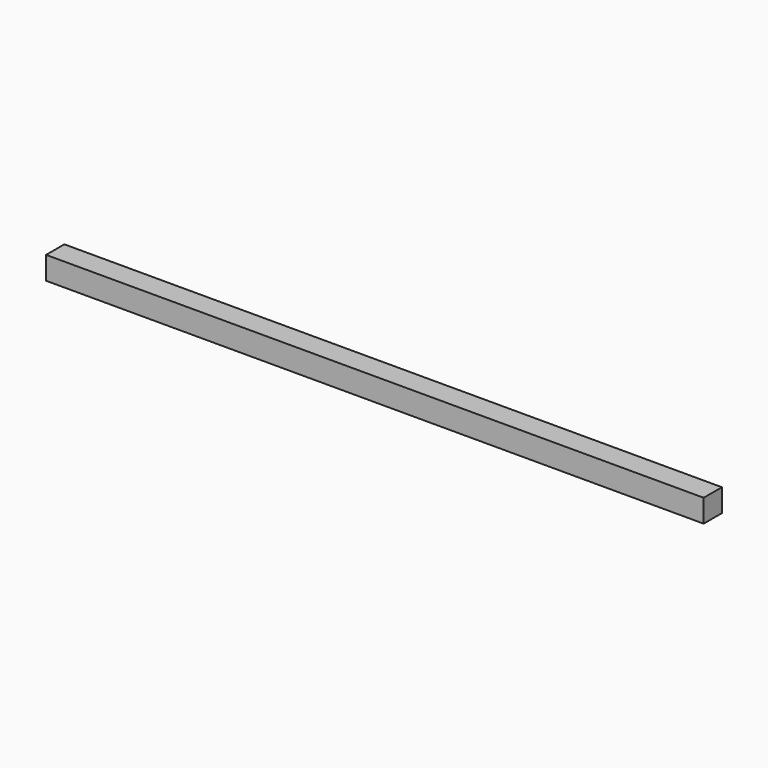
from build123d import *

# Parameters (mm, degrees)
F0_R     = 2.794
F1_DEPTH = 40.2336
F3_W     = 55.88
F3_H     = 55.88
F4_DEPTH = 1609.344


with BuildPart() as f1:
    # F0 (on Right) → F1 (new body)
    with BuildSketch(Plane.YZ):
        Circle(F0_R)
    extrude(amount=F1_DEPTH)


with BuildPart() as f4:
    # F3 (on offset) → F4 (new body)
    with BuildSketch(Plane.YZ.offset(824.7888)):
        Rectangle(F3_W, F3_H)
    extrude(amount=-F4_DEPTH)


solid = Compound([f1.part, f4.part])
